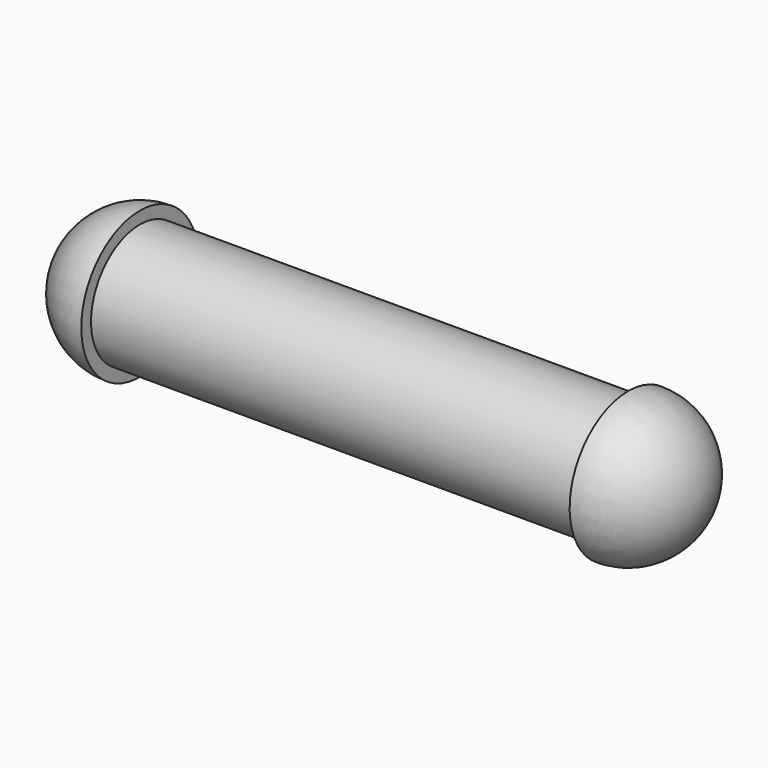
from build123d import *

# Parameters (mm, degrees)
F0_W = 200
F0_H = 25


with BuildPart() as f1:
    # F0 (on Front) → F1 (revolve)
    with BuildSketch(Plane.XZ):
        with BuildLine():
            Line((100, 30), (100, 25))
            Line((100, 25), (100, 0))
            Line((100, 0), (130, 0))
            ThreePointArc((130, 0), (121.213203, 21.213203), (100, 30))
        make_face()
        with Locations((0, 12.5)):
            Rectangle(F0_W, F0_H)
        with BuildLine():
            Line((-100, 0), (-100, 25))
            Line((-100, 25), (-100, 30))
            ThreePointArc((-100, 30), (-121.213203, 21.213203), (-130, 0))
            Line((-130, 0), (-100, 0))
        make_face()
    revolve(axis=Axis((0, 0, 0), (1, 0, 0)))


solid = f1.part
